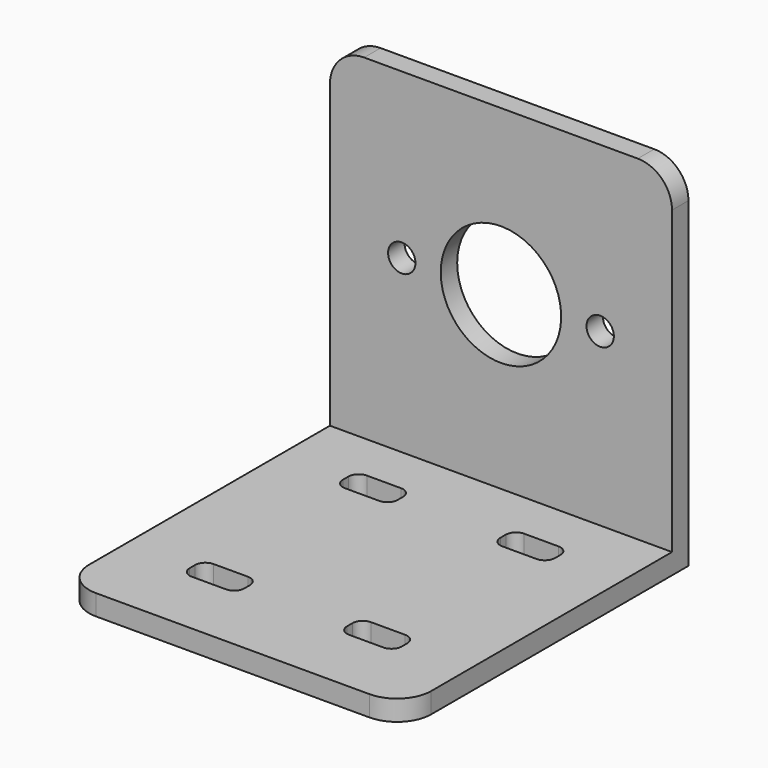
from build123d import *

# Parameters (mm, degrees)
F0_W     = 50
F0_H     = 26
F1_DEPTH = 3
F2_W     = 50
F2_H     = 3
F3_DEPTH = 49
F4_R     = 2
F4_R_2   = 8.8
F5_DEPTH = 3
F6_R     = 5


with BuildPart() as f1:
    # F0 (on Top) → F1 (new body)
    with BuildSketch(Plane.XY):
        Polygon((25, 0), (0, 0), (-25, 0), (-25, -26), (25, -26), align=None)
        with BuildLine():
            ThreePointArc((-7.5, -12.5), (-7.93934, -13.56066), (-9, -14))
            Line((-9, -14), (-14, -14))
            ThreePointArc((-14, -14), (-15.06066, -13.56066), (-15.5, -12.5))
            Line((-15.5, -12.5), (-15.5, -11.5))
            ThreePointArc((-15.5, -11.5), (-15.06066, -10.43934), (-14, -10))
            Line((-14, -10), (-9, -10))
            ThreePointArc((-9, -10), (-7.93934, -10.43934), (-7.5, -11.5))
            Line((-7.5, -11.5), (-7.5, -12.5))
        make_face(mode=Mode.SUBTRACT)
        with BuildLine():
            Line((14, -14), (9, -14))
            ThreePointArc((9, -14), (7.93934, -13.56066), (7.5, -12.5))
            Line((7.5, -12.5), (7.5, -11.5))
            ThreePointArc((7.5, -11.5), (7.93934, -10.43934), (9, -10))
            Line((9, -10), (14, -10))
            ThreePointArc((14, -10), (15.06066, -10.43934), (15.5, -11.5))
            Line((15.5, -11.5), (15.5, -12.5))
            ThreePointArc((15.5, -12.5), (15.06066, -13.56066), (14, -14))
        make_face(mode=Mode.SUBTRACT)
        with Locations((0, -39)):
            Rectangle(F0_W, F0_H)
        with BuildLine():
            ThreePointArc((-7.5, -40.5), (-7.93934, -41.56066), (-9, -42))
            Line((-9, -42), (-14, -42))
            ThreePointArc((-14, -42), (-15.06066, -41.56066), (-15.5, -40.5))
            Line((-15.5, -40.5), (-15.5, -39.5))
            ThreePointArc((-15.5, -39.5), (-15.06066, -38.43934), (-14, -38))
            Line((-14, -38), (-9, -38))
            ThreePointArc((-9, -38), (-7.93934, -38.43934), (-7.5, -39.5))
            Line((-7.5, -39.5), (-7.5, -40.5))
        make_face(mode=Mode.SUBTRACT)
        with BuildLine():
            Line((15.5, -39.5), (15.5, -40.5))
            ThreePointArc((15.5, -40.5), (15.06066, -41.56066), (14, -42))
            Line((14, -42), (9, -42))
            ThreePointArc((9, -42), (7.93934, -41.56066), (7.5, -40.5))
            Line((7.5, -40.5), (7.5, -39.5))
            ThreePointArc((7.5, -39.5), (7.93934, -38.43934), (9, -38))
            Line((9, -38), (14, -38))
            ThreePointArc((14, -38), (15.06066, -38.43934), (15.5, -39.5))
        make_face(mode=Mode.SUBTRACT)
    extrude(amount=F1_DEPTH)

    # F2 (on face) → F3 (join)
    with BuildSketch(Plane.XY.offset(3)):
        with Locations((0, -1.5)):
            Rectangle(F2_W, F2_H)
    extrude(amount=F3_DEPTH)

    # F4 (on face) → F5 (cut)
    with BuildSketch(Plane(origin=(0, 0, 0), x_dir=(-1, 0, 0), z_dir=(0, 1, 0))):
        with Locations((-14.5, 28)):
            Circle(F4_R)
        with Locations((0, 28)):
            Circle(F4_R_2)
        with Locations((14.5, 28)):
            Circle(F4_R)
    extrude(amount=-F5_DEPTH, mode=Mode.SUBTRACT)

    # F6
    f6_edges = [f1.edges().sort_by_distance(p)[0] for p in [
        (-25, -1.5, 52),
        (25, -1.5, 52),
        (-25, -52, 1.5),
        (25, -52, 1.5),
    ]]
    fillet(f6_edges, radius=F6_R)


solid = f1.part
